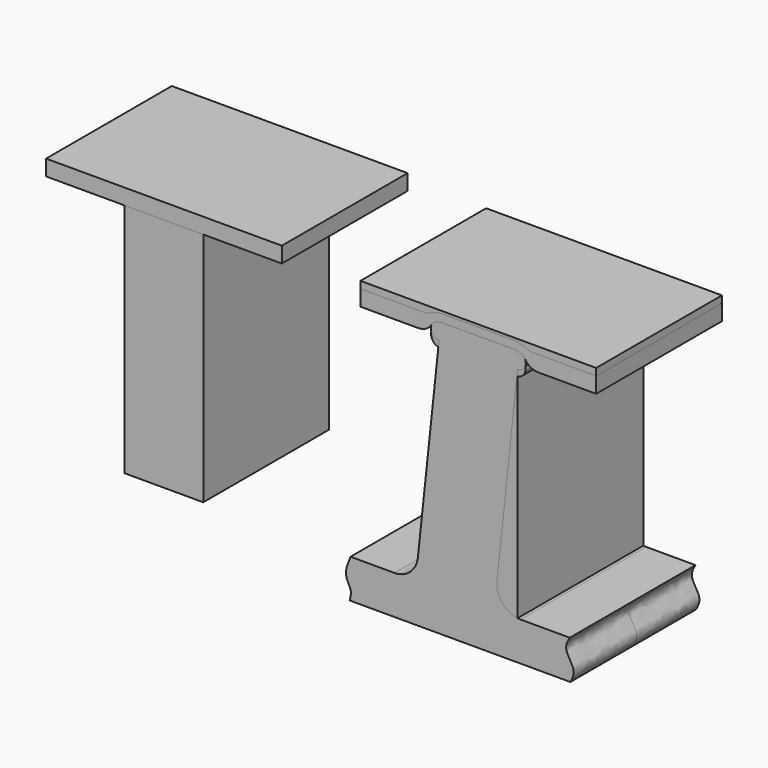
from build123d import *

# Parameters (mm, degrees)
F5_W      = 5
F5_H      = 15
F6_DEPTH  = 5
F7_W      = 15
F7_H      = 1
F8_DEPTH  = 5
F10_DEPTH = 5
F12_DEPTH = 5
F13_R     = 1
F14_R     = 1.5


with BuildPart() as f6:
    # F5 (on Front) → F6 (new body, symmetric)
    with BuildSketch(Plane.XZ):
        with Locations((-62.5, -7.5)):
            Rectangle(F5_W, F5_H)
    extrude(amount=F6_DEPTH, both=True)


with BuildPart() as f6b:
    # F5 (on Front) → F6, piece 2 (new body, symmetric)
    with BuildSketch(Plane.XZ):
        with BuildLine():
            ThreePointArc((-45.2159381819, -0.3433741818), (-45.4952685083, -0.9722616262), (-45, -1.45))
            Line((-45, -1.45), (-45, -15))
            Line((-45, -15), (-40, -15))
            Line((-40, -15), (-40, -1.45))
            ThreePointArc((-40, -1.45), (-39.5047314917, -0.9722616262), (-39.7840618181, -0.3433741818))
            ThreePointArc((-39.7840618181, -0.3433741818), (-40.0322555493, -0.2365100368), (-40.3, -0.2))
            Line((-40.3, -0.2), (-44.7, -0.2))
            ThreePointArc((-44.7, -0.2), (-44.9677444507, -0.2365100368), (-45.2159381819, -0.3433741818))
        make_face()
    extrude(amount=F6_DEPTH, both=True)


with BuildPart() as f8:
    # F7 (on Front) → F8 (new body, symmetric)
    with BuildSketch(Plane.XZ):
        with Locations((-62.5, 0.5)):
            Rectangle(F7_W, F7_H)
    extrude(amount=F8_DEPTH, both=True)


with BuildPart() as f8b:
    # F7 (on Front) → F8, piece 2 (new body, symmetric)
    with BuildSketch(Plane.XZ):
        with BuildLine():
            Line((-35, 0.6566258182), (-50, 0.6566258182))
            Line((-50, 0.6566258182), (-50, -0.3433741818))
            Line((-50, -0.3433741818), (-45.2159381819, -0.3433741818))
            ThreePointArc((-45.2159381819, -0.3433741818), (-44.9677444507, -0.2365100368), (-44.7, -0.2))
            Line((-44.7, -0.2), (-40.3, -0.2))
            ThreePointArc((-40.3, -0.2), (-40.0322555493, -0.2365100368), (-39.7840618181, -0.3433741818))
            Line((-39.7840618181, -0.3433741818), (-35, -0.3433741818))
            Line((-35, -0.3433741818), (-35, 0.6566258182))
        make_face()
    extrude(amount=F8_DEPTH, both=True)


with BuildPart() as f10:
    # F9 (on Front) → F10 (new body, symmetric)
    with BuildSketch(Plane.XZ):
        with BuildLine():
            Line((-40.25, 0), (-44.75, 0))
            ThreePointArc((-44.75, 0), (-44.9791594988, -0.0211851547), (-45.2005513505, -0.0840225214))
            ThreePointArc((-45.2005513505, -0.0840225214), (-45.509891127, -0.6520535457), (-45, -1.05))
            Line((-45, -1.05), (-46.4879758656, -15))
            Line((-46.4879758656, -15), (-50.6274402142, -15))
            add(Edge.make_bspline(
                [(-50.6274402142, -15), (-50.7947364996, -15.3942994532), (-51.1004502292, -16.1148340192), (-50.5169564586, -16.8319173185), (-50.6324987301, -17.2658232252), (-50.6865717471, -17.4688883126)],
                knots=[0, 0, 0, 0, 0.3913581203, 0.7151596359, 1, 1, 1, 1], degree=3))
            Line((-50.6865717471, -17.4688883126), (-36.6419702768, -17.4688883126))
            add(Edge.make_bspline(
                [(-36.6811295621, -15), (-36.8168513331, -15.2351602212), (-37.1141343472, -15.7502517856), (-36.2348468495, -16.7010428967), (-36.5140489091, -17.2276252723), (-36.6419702768, -17.4688883126)],
                knots=[0, 0, 0, 0, 0.3127968435, 0.6851457046, 1, 1, 1, 1], degree=3))
            Line((-36.6811295621, -15), (-41.4879758656, -15))
            Line((-41.4879758656, -15), (-40, -1.05))
            ThreePointArc((-40, -1.05), (-39.490108873, -0.6520535457), (-39.7994486495, -0.0840225214))
            ThreePointArc((-39.7994486495, -0.0840225214), (-40.0208405012, -0.0211851547), (-40.25, 0))
        make_face()
    extrude(amount=F10_DEPTH, both=True)

    # F14
    f14_edges = [f10.edges().sort_by_distance(p)[0] for p in [
        (-41.487976, 0, -15),
        (-46.487976, 0, -15),
    ]]
    fillet(f14_edges, radius=F14_R)


with BuildPart() as f12:
    # F11 (on Front) → F12 (new body, symmetric)
    with BuildSketch(Plane.XZ):
        with BuildLine():
            Line((-50, -0.792350733), (-45.4578995266, -0.792350733))
            ThreePointArc((-45.4578995266, -0.792350733), (-45.4902755998, -0.3796742531), (-45.2005513505, -0.0840225214))
            ThreePointArc((-45.2005513505, -0.0840225214), (-44.9791594988, -0.0211851547), (-44.75, 0))
            Line((-44.75, 0), (-40.25, 0))
            ThreePointArc((-40.25, 0), (-40.0208405012, -0.0211851547), (-39.7994486495, -0.0840225214))
            ThreePointArc((-39.7994486495, -0.0840225214), (-39.5097244002, -0.3796742531), (-39.5421004734, -0.792350733))
            Line((-39.5421004734, -0.792350733), (-35, -0.792350733))
            Line((-35, -0.792350733), (-35, 0.207649267))
            Line((-35, 0.207649267), (-39.2816206248, 0.207649267))
            ThreePointArc((-39.2816206248, 0.207649267), (-39.7442264426, 0.4253188081), (-40.25, 0.5))
            Line((-40.25, 0.5), (-44.75, 0.5))
            ThreePointArc((-44.75, 0.5), (-45.2557735574, 0.4253188081), (-45.7183793752, 0.207649267))
            Line((-45.7183793752, 0.207649267), (-50, 0.207649267))
            Line((-50, 0.207649267), (-50, -0.792350733))
        make_face()
    extrude(amount=F12_DEPTH, both=True)

    # F13
    f13_edges = [f12.edges().sort_by_distance(p)[0] for p in [
        (-45.4579, 0, -0.792351),
        (-39.5421, 0, -0.792351),
        (-45.718379, 0, 0.207649),
        (-39.281621, 0, 0.207649),
    ]]
    fillet(f13_edges, radius=F13_R)


solid = Compound([f6.part, f6b.part, f8.part, f8b.part, f10.part, f12.part])
